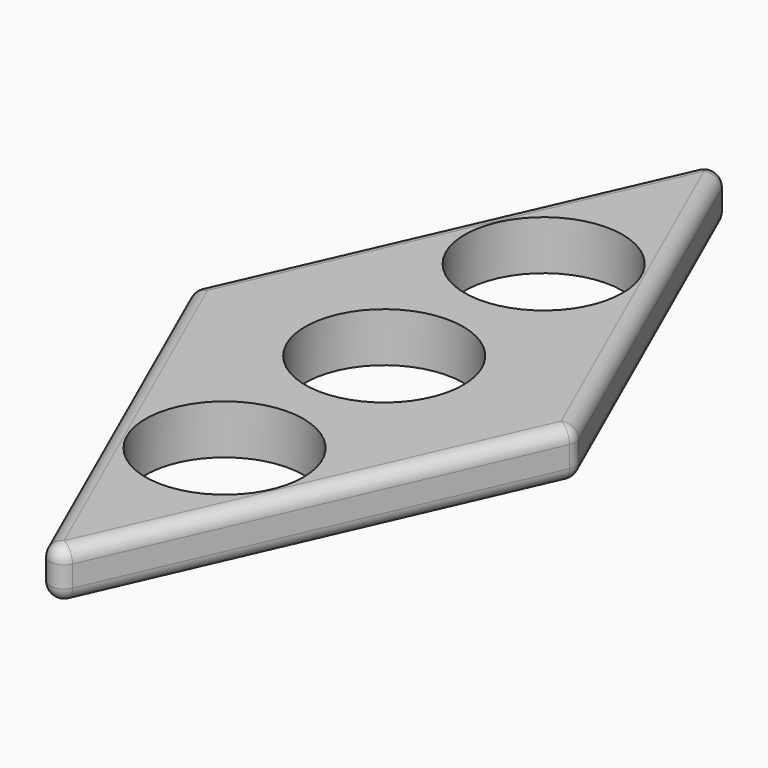
from build123d import *

# Parameters (mm, degrees)
F0_R     = 11.2
F1_DEPTH = 7
F2_R     = 2


with BuildPart() as f1:
    # F0 (on Top) → F1 (new body)
    with BuildSketch(Plane.XY):
        Polygon((27.275693, 0), (0, 61.624534), (-27.275693, 0), (0, -61.712495), align=None)
        with Locations((0, -28.317763)):
            Circle(F0_R, mode=Mode.SUBTRACT)
        Circle(F0_R, mode=Mode.SUBTRACT)
        with Locations((0, 28.269617)):
            Circle(F0_R, mode=Mode.SUBTRACT)
    extrude(amount=F1_DEPTH)

    # F2
    f2_edges = [f1.edges().sort_by_distance(p)[0] for p in [
        (27.275693, 0, 3.5),
        (0, 61.624534, 3.5),
        (13.637846, 30.812267, 0),
        (13.637846, 30.812267, 7),
        (13.637846, -30.856248, 7),
        (-27.275693, 0, 3.5),
        (-13.637846, 30.812267, 0),
        (-13.637846, 30.812267, 7),
        (0, -61.712495, 3.5),
        (-13.637846, -30.856248, 0),
        (-13.637846, -30.856248, 7),
        (13.637846, -30.856248, 0),
    ]]
    fillet(f2_edges, radius=F2_R)


solid = f1.part
